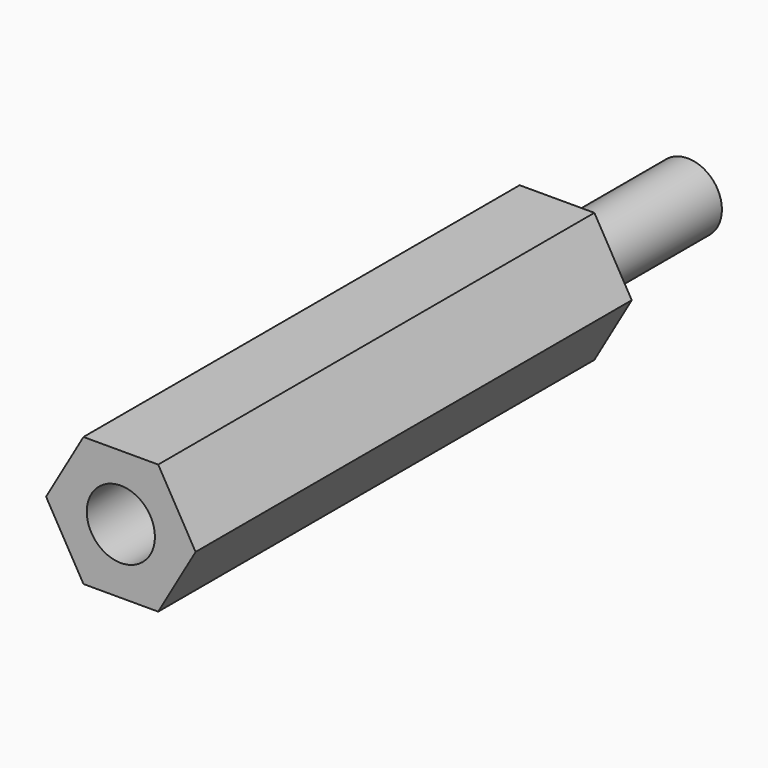
from build123d import *

# Parameters (mm, degrees)
PAD008_DEPTH            = 20
SKETCH021_R             = 1.25
PAD007_DEPTH            = 6
SKETCH023_R             = 1.25
POCKET013_DEPTH         = 5
BODY009_PLACEMENT_ANGLE = 90


with BuildPart() as part:
    # Sketch022 → Pad008 (new body)
    with BuildSketch(Plane.XY):
        Polygon((1.371207, 2.375), (-1.371207, 2.375), (-2.742414, 0), (-1.371207, -2.375), (1.371207, -2.375), (2.742414, 0), align=None)
    extrude(amount=PAD008_DEPTH)

    # Sketch021 (on Face7 of Pad008) → Pad007 (join)
    with BuildSketch(Plane(origin=(0, 0, 0), x_dir=(1, 0, 0), z_dir=(0, 0, -1))):
        Circle(SKETCH021_R)
    extrude(amount=PAD007_DEPTH)

    # Sketch023 (on Face5 of Pad007) → Pocket013 (cut)
    with BuildSketch(Plane.XY.offset(20)):
        Circle(SKETCH023_R)
    extrude(amount=-POCKET013_DEPTH, mode=Mode.SUBTRACT)


with BuildPart() as part_1:
    # Body009 placement: moved
    add(part.part.moved(Location((61, -23.8, -13.5))).rotate(Axis((61, -23.8, -13.5), (1, 0, 0)), BODY009_PLACEMENT_ANGLE))


with BuildPart() as part_2:
    # Body012 placement: moved
    add(part_1.part.moved(Location((58, 0, -49))))


solid = part_2.part
